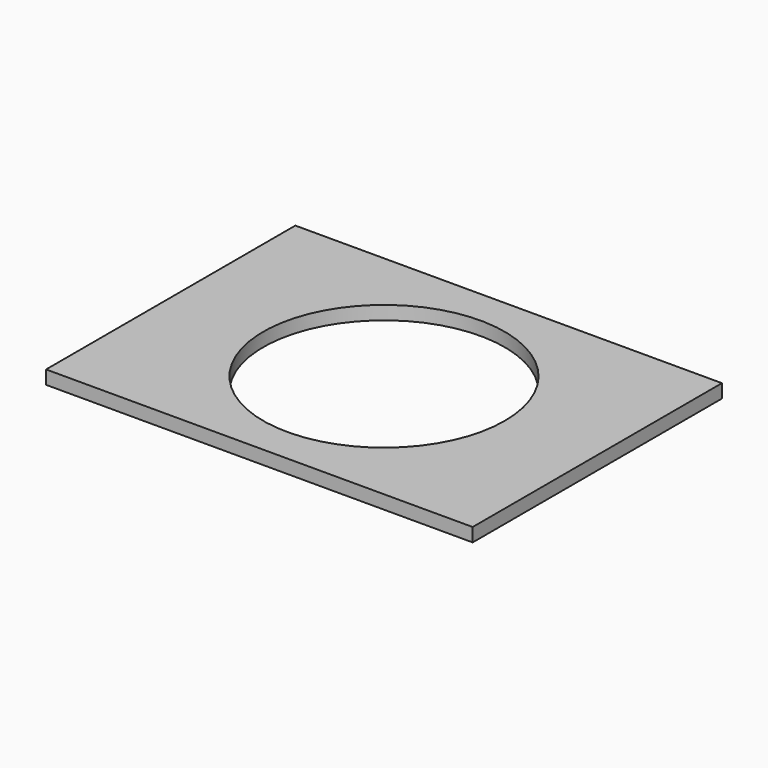
from build123d import *

# Parameters (mm, degrees)
F0_W     = 565.15
F0_H     = 412.75
F1_DEPTH = 18
F2_R     = 159.940625
F3_DEPTH = 18.001
F5_D     = 3.175
F5_DEPTH = 3.175
F5_TIP   = 0.9538662327


with BuildPart() as f1:
    # F0 (on Top) → F1 (new body)
    with BuildSketch(Plane.XY):
        Rectangle(F0_W, F0_H)
    extrude(amount=F1_DEPTH)

    # F2 (on face) → F3 (cut, through all)
    with BuildSketch(Plane.XY.offset(18)):
        Circle(F2_R)
    extrude(amount=-F3_DEPTH, mode=Mode.SUBTRACT)

    # F5
    with Locations(Plane(origin=(0, 0, 0), x_dir=(1, 0, 0), z_dir=(0, 0, -1))):
        with Locations((-257.175, -180.975), (-212.725, -180.975), (-212.725, -144.4625), (-257.175, -144.4625), (-257.175, -107.95), (-212.725, -107.95), (-257.175, 107.95), (-212.725, 107.95), (-257.175, 144.4625), (-212.725, 144.4625), (-257.175, 180.975), (-212.725, 180.975), (212.725, 180.975), (257.175, 180.975), (257.175, 144.4625), (212.725, 144.4625), (212.725, 107.95), (257.175, 107.95), (212.725, -107.95), (257.175, -107.95), (212.725, -144.4625), (257.175, -180.975), (257.175, -144.4625), (212.725, -180.975)):
            Hole(F5_D / 2, depth=F5_DEPTH)
            with Locations((0, 0, -(F5_DEPTH + F5_TIP / 2))):  # 118° drill point
                Cone(0, F5_D / 2, F5_TIP, mode=Mode.SUBTRACT)


solid = f1.part
